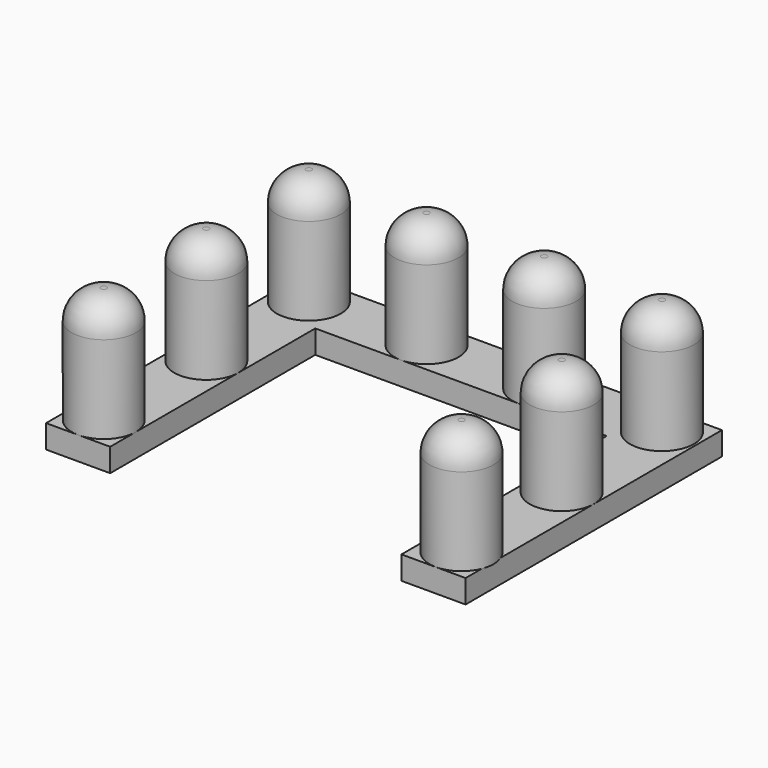
from build123d import *

# Parameters (mm, degrees)
F0_W     = 5.5
F0_H     = 22
F1_DEPTH = 2
F2_R     = 2.75
F3_DEPTH = 10
F4_R     = 2.5
F5_R     = 2.5


with BuildPart() as f1:
    # F0 (on Top) → F1 (new body)
    with BuildSketch(Plane.XY):
        with Locations((-44.035716, -27.214289)):
            Rectangle(F0_W, F0_H)
        Polygon((-46.785716, -10.714289), (-46.785716, -16.214289), (-41.285716, -16.214289), (-16.285716, -16.214289), (-10.785716, -16.214289), (-10.785716, -10.714289), align=None)
        with Locations((-13.535716, -27.214289)):
            Rectangle(F0_W, F0_H)
    extrude(amount=F1_DEPTH)

    # F2 (on face) → F3 (join)
    with BuildSketch(Plane.XY.offset(2)):
        with Locations((-44.035716, -35.464289)):
            Circle(F2_R)
        with Locations((-44.035716, -24.464289)):
            Circle(F2_R)
        with Locations((-44.035716, -13.464289)):
            Circle(F2_R)
        with Locations((-33.935716, -13.464289)):
            Circle(F2_R)
        with Locations((-23.835716, -13.464289)):
            Circle(F2_R)
        with Locations((-13.735716, -13.464289)):
            Circle(F2_R)
        with Locations((-13.535716, -24.46247)):
            Circle(F2_R)
        with Locations((-13.335716, -35.460652)):
            Circle(F2_R)
    extrude(amount=F3_DEPTH)

    # F4
    f4_edges = [f1.edges().sort_by_distance(p)[0] for p in [
        (-46.785716, -35.464289, 12),
    ]]
    fillet(f4_edges, radius=F4_R)

    # F5
    f5_edges = [f1.edges().sort_by_distance(p)[0] for p in [
        (-46.785716, -24.464289, 12),
        (-46.785716, -13.464289, 12),
        (-36.685716, -13.464289, 12),
        (-26.585716, -13.464289, 12),
        (-16.485716, -13.464289, 12),
        (-16.285716, -24.46247, 12),
        (-16.085716, -35.460652, 12),
    ]]
    fillet(f5_edges, radius=F5_R)


solid = f1.part
